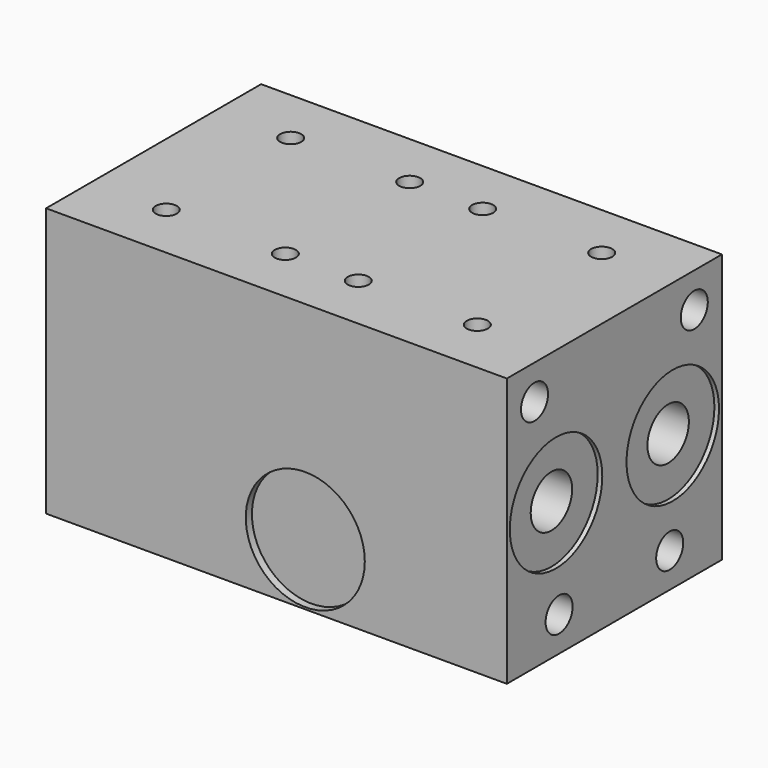
from build123d import *

# Parameters (mm, degrees)
F0_W      = 70
F0_H      = 70
F1_DEPTH  = 120
F3_D      = 13.49248
F4_D      = 8.8
F4_DEPTH  = 20
F4_TIP    = 2.6437867237
F2_R      = 15.05
F5_DEPTH  = 1.2
F7_D      = 8.8
F7_DEPTH  = 20
F7_TIP    = 2.6437867237
F6_R      = 15.05
F8_DEPTH  = 1.2
F10_D     = 5.5
F10_DEPTH = 20
F10_TIP   = 1.6523667023
F12_D     = 8.8
F12_DEPTH = 20
F12_TIP   = 2.6437867237
F14_D     = 10.0838
F14_DEPTH = 40
F14_TIP   = 3.0294791551
F13_R     = 13.75
F15_DEPTH = 1.2
F16_R     = 15.5
F17_DEPTH = 2


with BuildPart() as f1:
    # F0 (on Right) → F1 (new body)
    with BuildSketch(Plane.YZ):
        Rectangle(F0_W, F0_H)
    extrude(amount=F1_DEPTH)

    # F3 (through all)
    with Locations(Plane.YZ.offset(120)):
        with Locations((-19, 0), (19, 0)):
            Hole(F3_D / 2)

    # F4
    with Locations(Plane.YZ.offset(120)):
        with Locations((-26, 26), (26, 25.9378720075), (-18, -26), (18, -26)):
            Hole(F4_D / 2, depth=F4_DEPTH)
            with Locations((0, 0, -(F4_DEPTH + F4_TIP / 2))):  # 118° drill point
                Cone(0, F4_D / 2, F4_TIP, mode=Mode.SUBTRACT)

    # F2 (on face) → F5 (cut)
    with BuildSketch(Plane.YZ.offset(120)):
        with Locations((-19, 0)):
            Circle(F2_R)
        with Locations((19, 0)):
            Circle(F2_R)
    extrude(amount=-F5_DEPTH, mode=Mode.SUBTRACT)

    # F7
    with Locations(Plane(origin=(0, 0, 0), x_dir=(0, -1, 0), z_dir=(-1, 0, 0))):
        with Locations((-26, 25.9378720075), (26, 26), (-18, -26), (18, -26)):
            Hole(F7_D / 2, depth=F7_DEPTH)
            with Locations((0, 0, -(F7_DEPTH + F7_TIP / 2))):  # 118° drill point
                Cone(0, F7_D / 2, F7_TIP, mode=Mode.SUBTRACT)

    # F6 (on face) → F8 (cut)
    with BuildSketch(Plane(origin=(0, 0, 0), x_dir=(0, -1, 0), z_dir=(-1, 0, 0))):
        with Locations((-19, 0)):
            Circle(F6_R)
        with Locations((19, 0)):
            Circle(F6_R)
    extrude(amount=-F8_DEPTH, mode=Mode.SUBTRACT)

    # F10
    with Locations(Plane.XY.offset(35)):
        with Locations((19.5, 20.25), (19.5, -20.25), (50.5, -20.25), (50.5, 20.25), (69.5, 20.25), (69.5, -20.25), (100.5, -20.25), (100.5, 20.25)):
            Hole(F10_D / 2, depth=F10_DEPTH)
            with Locations((0, 0, -(F10_DEPTH + F10_TIP / 2))):  # 118° drill point
                Cone(0, F10_D / 2, F10_TIP, mode=Mode.SUBTRACT)

    # F12
    with Locations(Plane(origin=(0, 0, -35), x_dir=(1, 0, 0), z_dir=(0, 0, -1))):
        with Locations((8, 27), (8, -27), (112, 27), (112, -27)):
            Hole(F12_D / 2, depth=F12_DEPTH)
            with Locations((0, 0, -(F12_DEPTH + F12_TIP / 2))):  # 118° drill point
                Cone(0, F12_D / 2, F12_TIP, mode=Mode.SUBTRACT)

    # F14
    with Locations(Plane(origin=(0, 35, 0), x_dir=(-1, 0, 0), z_dir=(0, 1, 0))):
        with Locations((-85, 19), (-35, 19), (-35, -19), (-85, -19)):
            Hole(F14_D / 2, depth=F14_DEPTH)
            with Locations((0, 0, -(F14_DEPTH + F14_TIP / 2))):  # 118° drill point
                Cone(0, F14_D / 2, F14_TIP, mode=Mode.SUBTRACT)

    # F13 (on face) → F15 (cut)
    with BuildSketch(Plane(origin=(0, 35, 0), x_dir=(-1, 0, 0), z_dir=(0, 1, 0))):
        with Locations((-85, 19)):
            Circle(F13_R)
        with Locations((-85, -19)):
            Circle(F13_R)
        with Locations((-35, 19)):
            Circle(F13_R)
        with Locations((-35, -19)):
            Circle(F13_R)
    extrude(amount=-F15_DEPTH, mode=Mode.SUBTRACT)

    # F16 (on face) → F17 (cut)
    with BuildSketch(Plane.XZ.offset(35)):
        with Locations((67.5, -19)):
            Circle(F16_R)
    extrude(amount=-F17_DEPTH, mode=Mode.SUBTRACT)


solid = f1.part
